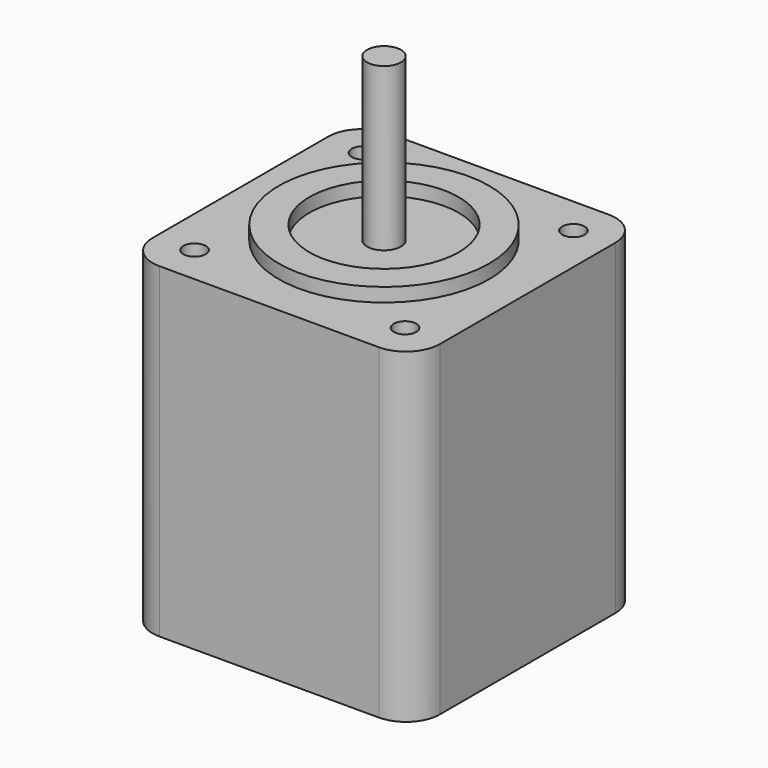
from build123d import *

# Parameters (mm, degrees)
F0_W     = 42.3
F0_H     = 42.3
F1_DEPTH = 48
F2_D     = 3.3
F2_DEPTH = 4.5
F2_TIP   = 0.9914200214
F3_R     = 5
F4_R     = 15.495
F4_R_2   = 11
F5_DEPTH = 2.03
F6_R     = 2.495
F7_DEPTH = 23.88


with BuildPart() as f1:
    # F0 (on Top) → F1 (new body)
    with BuildSketch(Plane.XY):
        Rectangle(F0_W, F0_H)
    extrude(amount=-F1_DEPTH)

    # F2
    with Locations(Plane.XY):
        with Locations((-15.495, 15.495), (-15.495, -15.495), (15.495, -15.495), (15.495, 15.495)):
            Hole(F2_D / 2, depth=F2_DEPTH)
            with Locations((0, 0, -(F2_DEPTH + F2_TIP / 2))):  # 118° drill point
                Cone(0, F2_D / 2, F2_TIP, mode=Mode.SUBTRACT)

    # F3
    f3_edges = [f1.edges().sort_by_distance(p)[0] for p in [
        (-21.15, 21.15, -24),
        (-21.15, -21.15, -24),
        (21.15, -21.15, -24),
        (21.15, 21.15, -24),
    ]]
    fillet(f3_edges, radius=F3_R)

    # F4 (on face) → F5 (join)
    with BuildSketch(Plane.XY):
        Circle(F4_R)
        Circle(F4_R_2, mode=Mode.SUBTRACT)
    extrude(amount=F5_DEPTH)

    # F6 (on face) → F7 (join)
    with BuildSketch(Plane.XY):
        Circle(F6_R)
    extrude(amount=F7_DEPTH)


solid = f1.part
